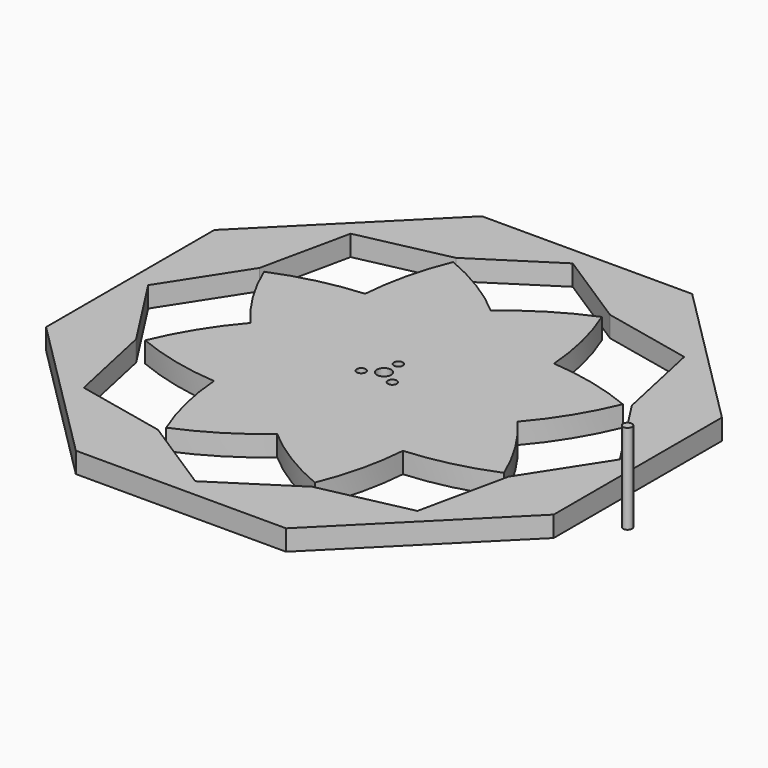
from build123d import *

# Parameters (mm, degrees)
F1_DEPTH = 2.921
F2_D     = 2.032
F2_DEPTH = 12.7
F2_TIP   = 0.6104743889
F3_D     = 1.27
F3_DEPTH = 12.7
F3_TIP   = 0.3815464931
F5_DEPTH = 2.921
F6_R     = 4.826
F6_R_2   = 0.635
F7_DEPTH = 0.762
F8_R     = 0.635
F9_DEPTH = 12.7


with BuildPart() as f1:
    # F0 (on Top) → F1 (new body)
    with BuildSketch(Plane.XY):
        with BuildLine():
            ThreePointArc((-5.446083021, 13.1480074912), (-2.8705353277, 16.1713104582), (0, 18.9160934521))
            ThreePointArc((0, 18.9160934521), (-5.0012444453, 22.5787441587), (-10.5210244843, 25.4))
            ThreePointArc((-10.5210244843, 25.4), (-12.4291692436, 19.5019969669), (-13.3756979535, 13.3756979535))
            ThreePointArc((-13.3756979535, 13.3756979535), (-9.4050682898, 13.4646182815), (-5.446083021, 13.1480074912))
        make_face()
        with BuildLine():
            ThreePointArc((13.1480074912, -5.446083021), (13.4646182815, -9.4050682898), (13.3756979535, -13.3756979535))
            ThreePointArc((13.3756979535, -13.3756979535), (19.5019969669, -12.4291692436), (25.4, -10.5210244843))
            ThreePointArc((25.4, -10.5210244843), (22.5787441587, -5.0012444453), (18.9160934521, 0))
            ThreePointArc((18.9160934521, 0), (16.1713104582, -2.8705353277), (13.1480074912, -5.446083021))
        make_face()
        with BuildLine():
            ThreePointArc((5.446083021, -13.1480074912), (9.4050682898, -13.4646182815), (13.3756979535, -13.3756979535))
            ThreePointArc((13.3756979535, -13.3756979535), (13.4646182815, -9.4050682898), (13.1480074912, -5.446083021))
            ThreePointArc((13.1480074912, -5.446083021), (10.8820575886, -7.0593898615), (8.5065612285, -8.5065612285))
            ThreePointArc((8.5065612285, -8.5065612285), (7.0593898615, -10.8820575886), (5.446083021, -13.1480074912))
        make_face()
        with BuildLine():
            ThreePointArc((-5.446083021, -13.1480074912), (-2.8705353277, -16.1713104582), (0, -18.9160934521))
            ThreePointArc((0, -18.9160934521), (2.8705353277, -16.1713104582), (5.446083021, -13.1480074912))
            ThreePointArc((5.446083021, -13.1480074912), (2.7030342721, -12.6865191563), (0, -12.0300942585))
            ThreePointArc((0, -12.0300942585), (-2.7030342721, -12.6865191563), (-5.446083021, -13.1480074912))
        make_face()
        with BuildLine():
            ThreePointArc((-10.5210244843, -25.4), (-5.0012444453, -22.5787441587), (0, -18.9160934521))
            ThreePointArc((0, -18.9160934521), (-2.8705353277, -16.1713104582), (-5.446083021, -13.1480074912))
            ThreePointArc((-5.446083021, -13.1480074912), (-9.4050682898, -13.4646182815), (-13.3756979535, -13.3756979535))
            ThreePointArc((-13.3756979535, -13.3756979535), (-12.4291692436, -19.5019969669), (-10.5210244843, -25.4))
        make_face()
        with BuildLine():
            ThreePointArc((-13.3756979535, -13.3756979535), (-9.4050682898, -13.4646182815), (-5.446083021, -13.1480074912))
            ThreePointArc((-5.446083021, -13.1480074912), (-7.0593898615, -10.8820575886), (-8.5065612285, -8.5065612285))
            ThreePointArc((-8.5065612285, -8.5065612285), (-10.8820575886, -7.0593898615), (-13.1480074912, -5.446083021))
            ThreePointArc((-13.1480074912, -5.446083021), (-13.4646182815, -9.4050682898), (-13.3756979535, -13.3756979535))
        make_face()
        with BuildLine():
            ThreePointArc((-25.4, -10.5210244843), (-19.5019969669, -12.4291692436), (-13.3756979535, -13.3756979535))
            ThreePointArc((-13.3756979535, -13.3756979535), (-13.4646182815, -9.4050682898), (-13.1480074912, -5.446083021))
            ThreePointArc((-13.1480074912, -5.446083021), (-16.1713104582, -2.8705353277), (-18.9160934521, 0))
            ThreePointArc((-18.9160934521, 0), (-22.5787441587, -5.0012444453), (-25.4, -10.5210244843))
        make_face()
        with BuildLine():
            ThreePointArc((-13.1480074912, -5.446083021), (-12.6865191563, -2.7030342721), (-12.0300942585, 0))
            ThreePointArc((-12.0300942585, 0), (-12.6865191563, 2.7030342721), (-13.1480074912, 5.446083021))
            ThreePointArc((-13.1480074912, 5.446083021), (-16.1713104582, 2.8705353277), (-18.9160934521, 0))
            ThreePointArc((-18.9160934521, 0), (-16.1713104582, -2.8705353277), (-13.1480074912, -5.446083021))
        make_face()
        with BuildLine():
            ThreePointArc((-18.9160934521, 0), (-16.1713104582, 2.8705353277), (-13.1480074912, 5.446083021))
            ThreePointArc((-13.1480074912, 5.446083021), (-13.4646182815, 9.4050682898), (-13.3756979535, 13.3756979535))
            ThreePointArc((-13.3756979535, 13.3756979535), (-19.5019969669, 12.4291692436), (-25.4, 10.5210244843))
            ThreePointArc((-25.4, 10.5210244843), (-22.5787441587, 5.0012444453), (-18.9160934521, 0))
        make_face()
        with BuildLine():
            ThreePointArc((-13.3756979535, 13.3756979535), (-13.4646182815, 9.4050682898), (-13.1480074912, 5.446083021))
            ThreePointArc((-13.1480074912, 5.446083021), (-10.8820575886, 7.0593898615), (-8.5065612285, 8.5065612285))
            ThreePointArc((-8.5065612285, 8.5065612285), (-7.0593898615, 10.8820575886), (-5.446083021, 13.1480074912))
            ThreePointArc((-5.446083021, 13.1480074912), (-9.4050682898, 13.4646182815), (-13.3756979535, 13.3756979535))
        make_face()
        with BuildLine():
            ThreePointArc((0, -18.9160934521), (5.0012444453, -22.5787441587), (10.5210244843, -25.4))
            ThreePointArc((10.5210244843, -25.4), (12.4291692436, -19.5019969669), (13.3756979535, -13.3756979535))
            ThreePointArc((13.3756979535, -13.3756979535), (9.4050682898, -13.4646182815), (5.446083021, -13.1480074912))
            ThreePointArc((5.446083021, -13.1480074912), (2.8705353277, -16.1713104582), (0, -18.9160934521))
        make_face()
        with BuildLine():
            ThreePointArc((0, 12.0300942585), (2.7030342721, 12.6865191563), (5.446083021, 13.1480074912))
            ThreePointArc((5.446083021, 13.1480074912), (2.8705353277, 16.1713104582), (0, 18.9160934521))
            ThreePointArc((0, 18.9160934521), (-2.8705353277, 16.1713104582), (-5.446083021, 13.1480074912))
            ThreePointArc((-5.446083021, 13.1480074912), (-2.7030342721, 12.6865191563), (0, 12.0300942585))
        make_face()
        with BuildLine():
            ThreePointArc((0, 18.9160934521), (2.8705353277, 16.1713104582), (5.446083021, 13.1480074912))
            ThreePointArc((5.446083021, 13.1480074912), (9.4050682898, 13.4646182815), (13.3756979535, 13.3756979535))
            ThreePointArc((13.3756979535, 13.3756979535), (12.4291692436, 19.5019969669), (10.5210244843, 25.4))
            ThreePointArc((10.5210244843, 25.4), (5.0012444453, 22.5787441587), (0, 18.9160934521))
        make_face()
        with BuildLine():
            ThreePointArc((5.446083021, 13.1480074912), (7.0593898615, 10.8820575886), (8.5065612285, 8.5065612285))
            ThreePointArc((8.5065612285, 8.5065612285), (10.8820575886, 7.0593898615), (13.1480074912, 5.446083021))
            ThreePointArc((13.1480074912, 5.446083021), (13.4646182815, 9.4050682898), (13.3756979535, 13.3756979535))
            ThreePointArc((13.3756979535, 13.3756979535), (9.4050682898, 13.4646182815), (5.446083021, 13.1480074912))
        make_face()
        with BuildLine():
            ThreePointArc((13.1480074912, 5.446083021), (16.1713104582, 2.8705353277), (18.9160934521, 0))
            ThreePointArc((18.9160934521, 0), (22.5787441587, 5.0012444453), (25.4, 10.5210244843))
            ThreePointArc((25.4, 10.5210244843), (19.5019969669, 12.4291692436), (13.3756979535, 13.3756979535))
            ThreePointArc((13.3756979535, 13.3756979535), (13.4646182815, 9.4050682898), (13.1480074912, 5.446083021))
        make_face()
        with BuildLine():
            ThreePointArc((12.0300942585, 0), (12.6865191563, -2.7030342721), (13.1480074912, -5.446083021))
            ThreePointArc((13.1480074912, -5.446083021), (16.1713104582, -2.8705353277), (18.9160934521, 0))
            ThreePointArc((18.9160934521, 0), (16.1713104582, 2.8705353277), (13.1480074912, 5.446083021))
            ThreePointArc((13.1480074912, 5.446083021), (12.6865191563, 2.7030342721), (12.0300942585, 0))
        make_face()
        with BuildLine():
            ThreePointArc((8.5065612285, 8.5065612285), (10.5210244843, 4.3579510314), (12.0300942585, 0))
            ThreePointArc((12.0300942585, 0), (12.6865191563, 2.7030342721), (13.1480074912, 5.446083021))
            ThreePointArc((13.1480074912, 5.446083021), (10.8820575886, 7.0593898615), (8.5065612285, 8.5065612285))
        make_face()
        with BuildLine():
            ThreePointArc((8.5065612285, -8.5065612285), (10.8820575886, -7.0593898615), (13.1480074912, -5.446083021))
            ThreePointArc((13.1480074912, -5.446083021), (12.6865191563, -2.7030342721), (12.0300942585, 0))
            ThreePointArc((12.0300942585, 0), (10.5210244843, -4.3579510314), (8.5065612285, -8.5065612285))
        make_face()
        with BuildLine():
            ThreePointArc((0, -12.0300942585), (2.7030342721, -12.6865191563), (5.446083021, -13.1480074912))
            ThreePointArc((5.446083021, -13.1480074912), (7.0593898615, -10.8820575886), (8.5065612285, -8.5065612285))
            ThreePointArc((8.5065612285, -8.5065612285), (4.3579510314, -10.5210244843), (0, -12.0300942585))
        make_face()
        with BuildLine():
            ThreePointArc((-8.5065612285, -8.5065612285), (-7.0593898615, -10.8820575886), (-5.446083021, -13.1480074912))
            ThreePointArc((-5.446083021, -13.1480074912), (-2.7030342721, -12.6865191563), (0, -12.0300942585))
            ThreePointArc((0, -12.0300942585), (-4.3579510314, -10.5210244843), (-8.5065612285, -8.5065612285))
        make_face()
        with BuildLine():
            ThreePointArc((-13.1480074912, -5.446083021), (-10.8820575886, -7.0593898615), (-8.5065612285, -8.5065612285))
            ThreePointArc((-8.5065612285, -8.5065612285), (-10.5210244843, -4.3579510314), (-12.0300942585, 0))
            ThreePointArc((-12.0300942585, 0), (-12.6865191563, -2.7030342721), (-13.1480074912, -5.446083021))
        make_face()
        with BuildLine():
            ThreePointArc((-13.1480074912, 5.446083021), (-12.6865191563, 2.7030342721), (-12.0300942585, 0))
            ThreePointArc((-12.0300942585, 0), (-10.5210244843, 4.3579510314), (-8.5065612285, 8.5065612285))
            ThreePointArc((-8.5065612285, 8.5065612285), (-10.8820575886, 7.0593898615), (-13.1480074912, 5.446083021))
        make_face()
        with BuildLine():
            ThreePointArc((-8.5065612285, 8.5065612285), (-4.3579510314, 10.5210244843), (0, 12.0300942585))
            ThreePointArc((0, 12.0300942585), (-2.7030342721, 12.6865191563), (-5.446083021, 13.1480074912))
            ThreePointArc((-5.446083021, 13.1480074912), (-7.0593898615, 10.8820575886), (-8.5065612285, 8.5065612285))
        make_face()
        with BuildLine():
            ThreePointArc((0, 12.0300942585), (4.3579510314, 10.5210244843), (8.5065612285, 8.5065612285))
            ThreePointArc((8.5065612285, 8.5065612285), (7.0593898615, 10.8820575886), (5.446083021, 13.1480074912))
            ThreePointArc((5.446083021, 13.1480074912), (2.7030342721, 12.6865191563), (0, 12.0300942585))
        make_face()
        with BuildLine():
            ThreePointArc((8.5065612285, -8.5065612285), (10.5210244843, -4.3579510314), (12.0300942585, 0))
            ThreePointArc((12.0300942585, 0), (10.5210244843, 4.3579510314), (8.5065612285, 8.5065612285))
            ThreePointArc((8.5065612285, 8.5065612285), (4.3579510314, 10.5210244843), (0, 12.0300942585))
            ThreePointArc((0, 12.0300942585), (-4.3579510314, 10.5210244843), (-8.5065612285, 8.5065612285))
            ThreePointArc((-8.5065612285, 8.5065612285), (-10.5210244843, 4.3579510314), (-12.0300942585, 0))
            ThreePointArc((-12.0300942585, 0), (-10.5210244843, -4.3579510314), (-8.5065612285, -8.5065612285))
            ThreePointArc((-8.5065612285, -8.5065612285), (-4.3579510314, -10.5210244843), (0, -12.0300942585))
            ThreePointArc((0, -12.0300942585), (4.3579510314, -10.5210244843), (8.5065612285, -8.5065612285))
        make_face()
    extrude(amount=F1_DEPTH)

    # F2
    with Locations(Plane(origin=(0, 0, 0), x_dir=(1, 0, 0), z_dir=(0, 0, -1))):
        with Locations((0, 0)):
            Hole(F2_D / 2, depth=F2_DEPTH)
            with Locations((0, 0, -(F2_DEPTH + F2_TIP / 2))):  # 118° drill point
                Cone(0, F2_D / 2, F2_TIP, mode=Mode.SUBTRACT)

    # F3
    with Locations(Plane(origin=(0, 0, 0), x_dir=(1, 0, 0), z_dir=(0, 0, -1))):
        with Locations((2.1997045256, 1.27), (-2.1997045256, 1.27), (0, -2.54)):
            Hole(F3_D / 2, depth=F3_DEPTH)
            with Locations((0, 0, -(F3_DEPTH + F3_TIP / 2))):  # 118° drill point
                Cone(0, F3_D / 2, F3_TIP, mode=Mode.SUBTRACT)


with BuildPart() as f5:
    # F4 (on Top) → F5 (new body)
    with BuildSketch(Plane.XY):
        Polygon((35.941, -14.8872496453), (35.941, 14.8872496453), (14.8872496453, 35.941), (-14.8872496453, 35.941), (-35.941, 14.8872496453), (-35.941, -14.8872496453), (-14.8872496453, -35.941), (14.8872496453, -35.941), align=None)
        Polygon((23.6180735984, 23.6180735984), (33.401, 13.8351471968), (33.401, 0), (33.401, -13.8351471968), (23.6180735984, -23.6180735984), (13.8351471968, -33.401), (0, -33.401), (-13.8351471968, -33.401), (-23.6180735984, -23.6180735984), (-33.401, -13.8351471968), (-33.401, 0), (-33.401, 13.8351471968), (-23.6180735984, 23.6180735984), (-13.8351471968, 33.401), (0, 33.401), (13.8351471968, 33.401), align=None, mode=Mode.SUBTRACT)
        Polygon((-10.9190994422, 26.3610379623), (0, 33.401), (-13.8351471968, 33.401), (-23.6180735984, 23.6180735984), align=None)
        Polygon((10.9190994422, 26.3610379623), (23.6180735984, 23.6180735984), (13.8351471968, 33.401), (0, 33.401), align=None)
        Polygon((33.401, 0), (33.401, 13.8351471968), (23.6180735984, 23.6180735984), (26.3610379623, 10.9190994422), align=None)
        Polygon((33.401, -13.8351471968), (33.401, 0), (26.3610379623, -10.9190994422), (23.6180735984, -23.6180735984), align=None)
        Polygon((-26.3610379623, 10.9190994422), (-23.6180735984, 23.6180735984), (-33.401, 13.8351471968), (-33.401, 0), align=None)
        Polygon((-13.8351471968, -33.401), (0, -33.401), (-10.9190994422, -26.3610379623), (-23.6180735984, -23.6180735984), align=None)
        Polygon((-33.401, -13.8351471968), (-23.6180735984, -23.6180735984), (-26.3610379623, -10.9190994422), (-33.401, 0), align=None)
        Polygon((13.8351471968, -33.401), (23.6180735984, -23.6180735984), (10.9190994422, -26.3610379623), (0, -33.401), align=None)
    extrude(amount=F5_DEPTH)


with BuildPart() as f7:
    # F6 (on Top) → F7 (new body)
    with BuildSketch(Plane.XY):
        Circle(F6_R)
        with Locations((-2.1997045256, -1.27)):
            Circle(F6_R_2, mode=Mode.SUBTRACT)
        with Locations((2.1997045256, -1.27)):
            Circle(F6_R_2, mode=Mode.SUBTRACT)
        with BuildLine():
            ThreePointArc((-0.0635, -1.0140136833), (-0.695607648, 0.7405308906), (1.016, 0))
            ThreePointArc((1.016, 0), (0.7405308906, -0.695607648), (0.0635, -1.0140136833))
            Line((0.0635, -1.0140136833), (0.0635, -1.397))
            ThreePointArc((0.0635, -1.397), (0, -1.4605), (-0.0635, -1.397))
            Line((-0.0635, -1.397), (-0.0635, -1.0140136833))
        make_face(mode=Mode.SUBTRACT)
        with Locations((0, 2.54)):
            Circle(F6_R_2, mode=Mode.SUBTRACT)
    extrude(amount=F7_DEPTH)


with BuildPart() as f9:
    # F8 (on Top) → F9 (new body)
    with BuildSketch(Plane.XY):
        with Locations((40.6890176237, -7.7573158778)):
            Circle(F8_R)
    extrude(amount=F9_DEPTH)


solid = Compound([f1.part, f5.part, f7.part, f9.part])
